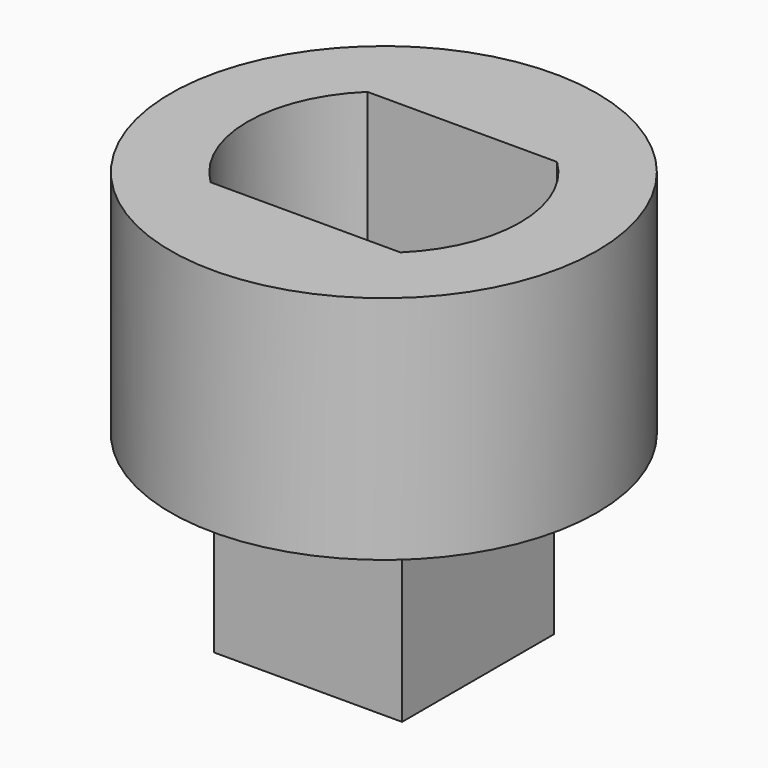
from build123d import *

# Parameters (mm, degrees)
F0_R     = 5.55
F1_DEPTH = 5
F0_W     = 4.939636
F0_H     = 5.1
F2_DEPTH = 1
F3_W     = 4.9
F3_H     = 4.939636
F4_DEPTH = 4.8


with BuildPart() as f1:
    # F0 (on Top) → F1 (new body)
    with BuildSketch(Plane.XY):
        Circle(F0_R)
        with BuildLine():
            ThreePointArc((-2.469818, -2.55), (-3.55, 0), (-2.469818, 2.55))
            Line((-2.469818, 2.55), (2.469818, 2.55))
            ThreePointArc((2.469818, 2.55), (3.55, 0), (2.469818, -2.55))
            Line((2.469818, -2.55), (-2.469818, -2.55))
        make_face(mode=Mode.SUBTRACT)
    extrude(amount=F1_DEPTH)

    # F0 (on Top) → F2 (join)
    with BuildSketch(Plane.XY):
        Circle(F0_R)
        with BuildLine():
            ThreePointArc((-2.469818, -2.55), (-3.55, 0), (-2.469818, 2.55))
            Line((-2.469818, 2.55), (2.469818, 2.55))
            ThreePointArc((2.469818, 2.55), (3.55, 0), (2.469818, -2.55))
            Line((2.469818, -2.55), (-2.469818, -2.55))
        make_face(mode=Mode.SUBTRACT)
        with BuildLine():
            ThreePointArc((2.469818, -2.55), (3.55, 0), (2.469818, 2.55))
            Line((2.469818, 2.55), (2.469818, -2.55))
        make_face()
        Rectangle(F0_W, F0_H)
        with BuildLine():
            Line((-2.469818, -2.55), (-2.469818, 2.55))
            ThreePointArc((-2.469818, 2.55), (-3.55, 0), (-2.469818, -2.55))
        make_face()
    extrude(amount=-F2_DEPTH)

    # F3 (on face) → F4 (join)
    with BuildSketch(Plane(origin=(0, 0, -1), x_dir=(1, 0, 0), z_dir=(0, 0, -1))):
        Rectangle(F3_W, F3_H)
    extrude(amount=F4_DEPTH)


solid = f1.part
